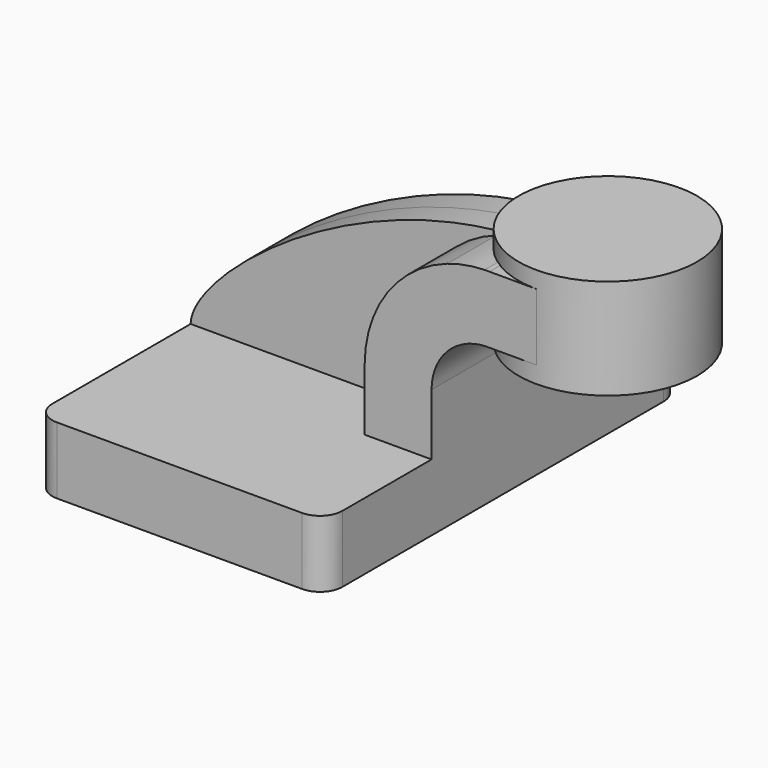
from build123d import *

# Parameters (mm, degrees)
F1_DEPTH = 63.5
F2_DEPTH = 25.4
F3_DEPTH = 7.9375
F5_R     = 6.35


with BuildPart() as f1:
    # F0 (on Front) → F1 (new body, symmetric)
    with BuildSketch(Plane.XZ):
        Polygon((22.225, 9.525), (-41.275, 9.525), (-41.275, -9.525), (41.275, -9.525), (41.275, 9.525), align=None)
    extrude(amount=F1_DEPTH, both=True)

    # F0 (on Front) → F2 (join, symmetric)
    with BuildSketch(Plane.XZ):
        with BuildLine():
            Line((22.225, 27.005265), (22.225, 9.525))
            Line((22.225, 9.525), (41.275, 9.525))
            Line((41.275, 9.525), (41.275, 27.005265))
            ThreePointArc((41.275, 27.005265), (42.448524, 32.995443), (45.795596, 38.1))
            Line((45.795596, 38.1), (45.72, 38.1))
            Line((45.72, 38.1), (45.72, 60.006943))
            ThreePointArc((45.72, 60.006943), (28.69874, 47.26067), (22.225, 27.005265))
        make_face()
        with BuildLine():
            ThreePointArc((56.369008, 61.921532), (50.969911, 61.379124), (45.72, 60.006943))
            Line((45.72, 60.006943), (45.72, 38.1))
            Line((45.72, 38.1), (45.795596, 38.1))
            ThreePointArc((45.795596, 38.1), (50.805869, 41.557503), (56.749004, 42.8752))
            Line((56.749004, 42.8752), (71.12, 42.8752))
            Line((71.12, 42.8752), (71.12, 61.9252))
            Line((71.12, 61.9252), (57.7448, 61.9252))
            add(Edge.make_bspline(
                [(56.369008, 61.921532), (56.827318, 61.92587), (57.285926, 61.927108), (57.7448, 61.9252)],
                knots=[111.022009, 111.022009, 111.022009, 111.022009, 112.029914, 112.029914, 112.029914, 112.029914], degree=3))
        make_face()
    extrude(amount=F2_DEPTH, both=True)

    # F0 (on Front) → F3 (join, symmetric)
    with BuildSketch(Plane.XZ):
        with BuildLine():
            add(Edge.make_bspline(
                [(-41.275, 9.525), (-40.999132, 22.371612), (-0.51452, 56.173199), (45.72, 61.276772)],
                knots=[0, 0, 0, 0, 103.164616, 103.164616, 103.164616, 103.164616], degree=3))
            Line((-41.275, 9.525), (22.225, 9.525))
            Line((22.225, 9.525), (22.225, 27.005265))
            ThreePointArc((22.225, 27.005265), (28.69874, 47.26067), (45.72, 60.006943))
            Line((45.72, 60.006943), (45.72, 61.276772))
        make_face()
    extrude(amount=F3_DEPTH, both=True)

    # F5
    f5_edges = [f1.edges().sort_by_distance(p)[0] for p in [
        (-41.275, -63.5, 0),
        (41.275, -63.5, 0),
        (41.275, 63.5, 0),
        (-41.275, 63.5, 0),
    ]]
    fillet(f5_edges, radius=F5_R)


with BuildPart() as f4:
    # F0 (on Front) → F4 (revolve)
    with BuildSketch(Plane.XZ):
        Polygon((96.52, 66.675), (71.12, 66.675), (71.12, 61.9252), (71.12, 42.8752), (71.12, 38.1), (96.52, 38.1), align=None)
    revolve(axis=Axis((71.12, 0, 52.3875), (0, 0, 1)))


solid = Compound([f1.part, f4.part])
